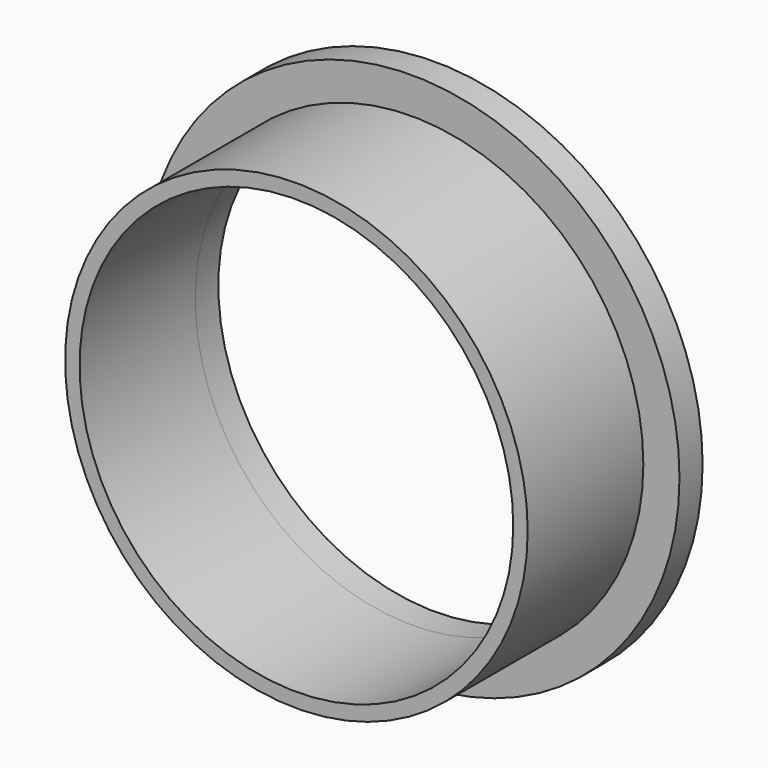
from build123d import *

# Parameters (mm, degrees)
F0_R     = 40.64
F0_R_2   = 38.1
F1_DEPTH = 25.4
F0_R_3   = 46.99
F2_DEPTH = 5.08


with BuildPart() as f1:
    # F0 (on Front) → F1 (new body)
    with BuildSketch(Plane.XZ):
        Circle(F0_R)
        Circle(F0_R_2, mode=Mode.SUBTRACT)
    extrude(amount=F1_DEPTH)


with BuildPart() as f2:
    # F0 (on Front) → F2 (new body)
    with BuildSketch(Plane.XZ):
        Circle(F0_R_3)
        Circle(F0_R, mode=Mode.SUBTRACT)
        Circle(F0_R)
        Circle(F0_R_2, mode=Mode.SUBTRACT)
    extrude(amount=-F2_DEPTH)


solid = Compound([f1.part, f2.part])
